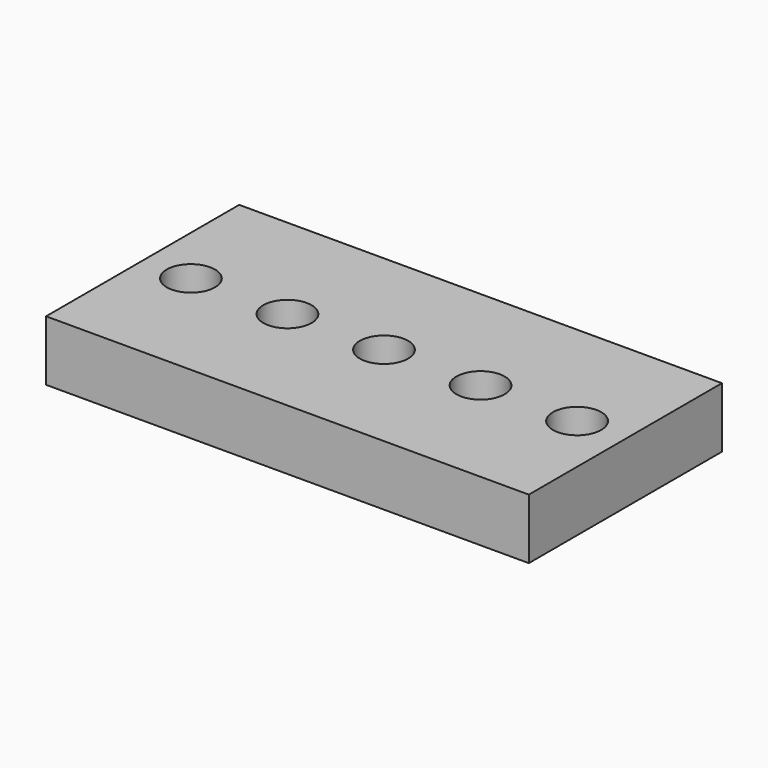
from build123d import *

# Parameters (mm, degrees)
F0_W     = 200
F0_H     = 100
F1_DEPTH = 25
F2_D     = 20
F2_DEPTH = 25


with BuildPart() as f1:
    # F0 (on Top) → F1 (new body)
    with BuildSketch(Plane.XY):
        Rectangle(F0_W, F0_H)
    extrude(amount=F1_DEPTH)

    # F2
    with Locations(Plane(origin=(0, 0, 0), x_dir=(1, 0, 0), z_dir=(0, 0, -1))):
        with Locations((-80, 0), (-40, 0), (0, 0), (40, 0), (80, 0)):
            Hole(F2_D / 2, depth=F2_DEPTH)


solid = f1.part
